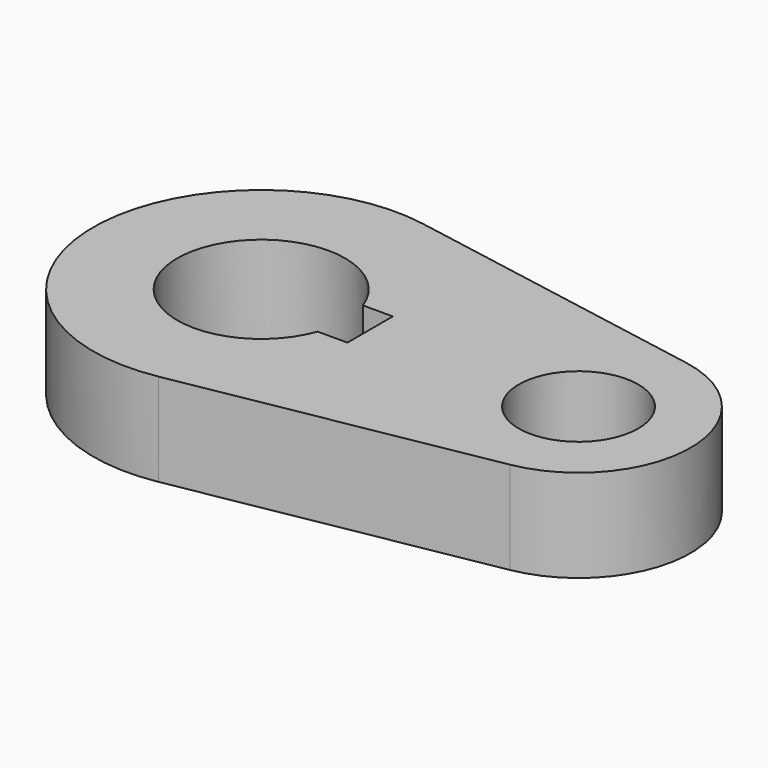
from build123d import *

# Parameters (mm, degrees)
F0_R     = 10.16
F1_DEPTH = 15.7734


with BuildPart() as f1:
    # F0 (on Top) → F1 (new body)
    with BuildSketch(Plane.XY):
        with BuildLine():
            ThreePointArc((5.042647, 28.126541), (-28.575, 0), (5.042647, -28.126541))
            ThreePointArc((5.042647, -28.126541), (21.916025, -18.336262), (28.575, 0))
            ThreePointArc((28.575, 0), (21.916025, 18.336262), (5.042647, 28.126541))
        make_face()
        with BuildLine():
            ThreePointArc((13.447765, -4.826), (-14.2875, 0), (13.447765, 4.826))
            Line((13.447765, 4.826), (18.5293, 4.826))
            Line((18.5293, 4.826), (18.5293, -4.826))
            Line((18.5293, -4.826), (13.447765, -4.826))
        make_face(mode=Mode.SUBTRACT)
        with BuildLine():
            Line((5.042647, -28.126541), (57.336765, -18.751028))
            ThreePointArc((57.336765, -18.751028), (73.025, 0), (57.336765, 18.751028))
            Line((57.336765, 18.751028), (5.042647, 28.126541))
            ThreePointArc((5.042647, 28.126541), (21.916025, 18.336262), (28.575, 0))
            ThreePointArc((28.575, 0), (21.916025, -18.336262), (5.042647, -28.126541))
        make_face()
        with Locations((53.975, 0)):
            Circle(F0_R, mode=Mode.SUBTRACT)
    extrude(amount=F1_DEPTH)


solid = f1.part
